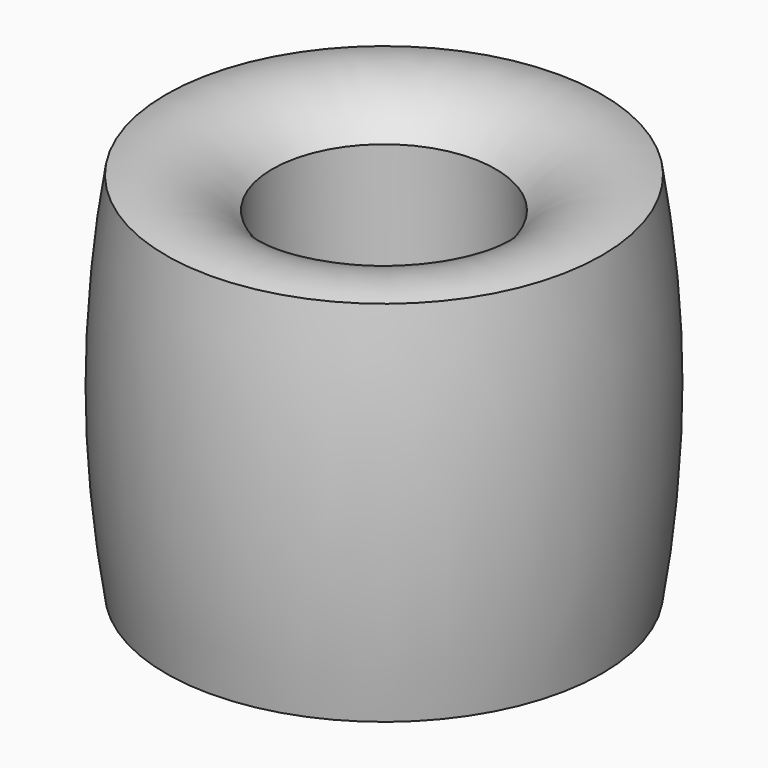
from build123d import *


with BuildPart() as f1:
    # F0 (on Front) → F1 (revolve)
    with BuildSketch(Plane.XZ):
        with BuildLine():
            Line((0, -10.638853), (0, 8.307049))
            Line((0, 8.307049), (-17.78, 8.307049))
            Line((-17.78, 8.307049), (-17.78, 42.992625))
            ThreePointArc((-17.78, 42.992625), (-25.449282, 48.143303), (-34.685574, 47.947705))
            ThreePointArc((-34.685574, 47.947705), (-37.096157, 18.654426), (-34.685574, -10.638853))
            Line((-34.685574, -10.638853), (0, -10.638853))
        make_face()
    revolve(axis=Axis((0, 0, -1.165902), (0, 0, 1)))


solid = f1.part
